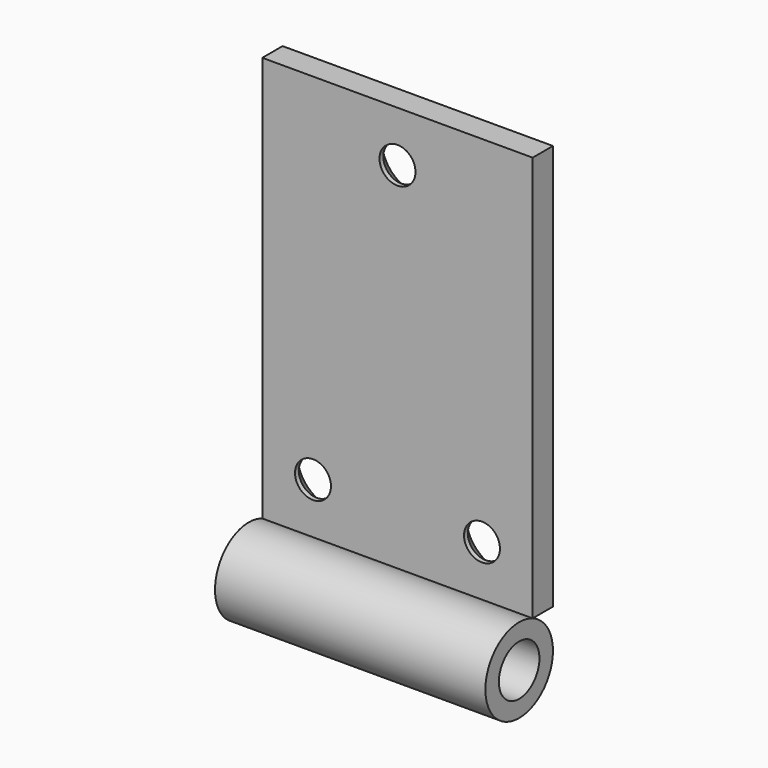
from build123d import *

# Parameters (mm, degrees)
F0_W           = 50.8
F0_H           = 76.2
F0_R           = 3.429
F1_DEPTH       = 4.7625
F2_D           = 6.7564
F2_CSINK_D     = 13.4874
F2_CSINK_ANGLE = 82
F3_R           = 7.9375
F3_R_2         = 4.7625
F4_DEPTH       = 25.4


with BuildPart() as f1:
    # F0 (on Front) → F1 (new body)
    with BuildSketch(Plane.XZ):
        Rectangle(F0_W, F0_H)
        with Locations((-15.875, -28.575)):
            Circle(F0_R, mode=Mode.SUBTRACT)
        with Locations((15.875, -28.575)):
            Circle(F0_R, mode=Mode.SUBTRACT)
        with Locations((0, 28.575)):
            Circle(F0_R, mode=Mode.SUBTRACT)
        with Locations((0, 28.575)):
            Circle(F0_R)
        with Locations((-15.875, -28.575)):
            Circle(F0_R)
        with Locations((15.875, -28.575)):
            Circle(F0_R)
    extrude(amount=F1_DEPTH)

    # F2 (through all)
    with Locations(Plane(origin=(0, 0, 0), x_dir=(1, 0, 0), z_dir=(0, 1, 0))):
        with Locations((0, -28.575), (-15.875, 28.575), (15.875, 28.575)):
            CounterSinkHole(F2_D / 2, F2_CSINK_D / 2, counter_sink_angle=F2_CSINK_ANGLE)


with BuildPart() as f4:
    # F3 (on Right) → F4 (new body, symmetric)
    with BuildSketch(Plane.YZ):
        with Locations((-7.9375, -45.3748389157)):
            Circle(F3_R)
        with Locations((-7.9375, -45.3748389157)):
            Circle(F3_R_2, mode=Mode.SUBTRACT)
    extrude(amount=F4_DEPTH, both=True)


solid = Compound([f1.part, f4.part])
